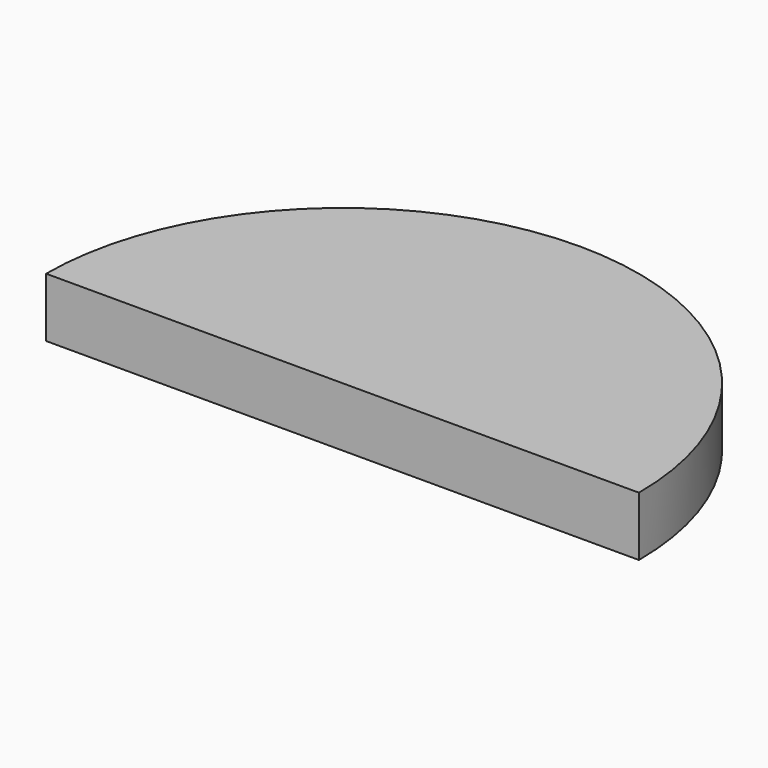
from build123d import *

# Parameters (mm, degrees)
F1_DEPTH = 6.35
F3_DEPTH = 25.4


with BuildPart() as f1:
    # F0 (on Top) → F1 (new body, symmetric)
    with BuildSketch(Plane.XY):
        with BuildLine():
            Line((-63.5, 0), (63.5, 0))
            ThreePointArc((63.5, 0), (0, 63.5), (-63.5, 0))
        make_face()
    extrude(amount=F1_DEPTH, both=True)

    # F2 (on Top) → F3 (cut)
    with BuildSketch(Plane.XY):
        with BuildLine():
            Line((-50.28365, 7.224578), (50.28365, 7.224578))
            ThreePointArc((50.28365, 7.224578), (0, 50.8), (-50.28365, 7.224578))
        make_face()
    extrude(amount=-F3_DEPTH, mode=Mode.SUBTRACT)


solid = f1.part
